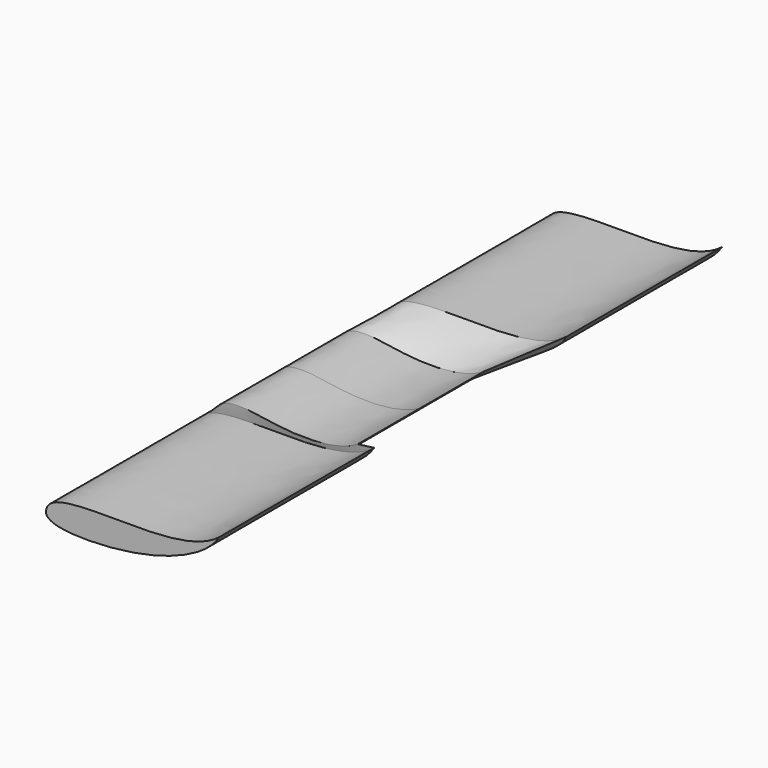
from build123d import *

# Parameters (mm, degrees)
F1_DEPTH = 160
F4_DEPTH = 395


with BuildPart() as f1:
    # F0 (on Front) → F1 (new body)
    with BuildSketch(Plane.XZ):
        with BuildLine():
            add(Edge.make_bspline(
                [(-1480, 56.1515912414), (-1472.4127512286, 77.6278256087), (-1411.3175787099, 81.1775037213), (-1338.0768695313, 62.3703446318), (-1230.9165869724, 64.385028033), (-1190, 88.7282312759)],
                knots=[0, 0, 0, 0, 0.273164287, 0.5870694785, 1, 1, 1, 1], degree=3))
            add(Edge.make_bspline(
                [(-1480, 56.1515912414), (-1477.4430900173, 39.0983586398), (-1392.5669949163, 26.7623668149), (-1270.415211733, 35.5212686698), (-1216.6171732979, 61.2203496459), (-1190, 88.7282312759)],
                knots=[0, 0, 0, 0, 0.2975153595, 0.6762557211, 1, 1, 1, 1], degree=3))
        make_face()
    extrude(amount=F1_DEPTH)



with BuildPart() as f4:
    # F3 (on offset) → F4 (new body)
    with BuildSketch(Plane.XZ.offset(246)):
        with BuildLine():
            add(Edge.make_bspline(
                [(-1441.43746001, 79.2777076528), (-1442.0846798885, 92.221641831), (-1414.6595554646, 121.3787952503), (-1215.6092420843, 106.0274347204), (-1117.7501816879, 126.8834528617), (-1088.0866950745, 150.2992587614)],
                knots=[0, 0, 0, 0, 0.1905928497, 0.6325941629, 1, 1, 1, 1], degree=3))
            add(Edge.make_bspline(
                [(-1441.43746001, 79.2777076528), (-1439.3557205725, 58.8550569179), (-1306.1859364534, 51.5306512304), (-1161.3256056896, 86.0638305965), (-1103.0176656511, 126.8834528617), (-1088.0866950745, 150.2992587614)],
                knots=[0, 0, 0, 0, 0.3272890238, 0.7163338812, 1, 1, 1, 1], degree=3))
        make_face()
    extrude(amount=F4_DEPTH)


with BuildPart() as f1_1:
    add(f1.part)

    add(f4.part)  # F5 merges F4
    # F1_face (on face) → F5 section 0
    with BuildSketch(Plane(origin=(-1361.0419255434, -160, 54.3808921039), x_dir=(1, 0, 0), z_dir=(0, -1, 0))):
        with BuildLine():
            add(Edge.make_bspline(
                [(-118.9580744566, 1.7706991375), (-111.3708256853, 23.2469335048), (-50.2756531666, 26.7966116174), (22.9650560121, 7.9894525279), (130.125338571, 10.0041359291), (171.0419255434, 34.347339172)],
                knots=[0, 0, 0, 0, 0.273164287, 0.5870694785, 1, 1, 1, 1], degree=3))
            add(Edge.make_bspline(
                [(-118.9580744566, 1.7706991375), (-116.4011644739, -15.2825334641), (-31.525069373, -27.618525289), (90.6267138104, -18.8596234341), (144.4247522454, 6.839457542), (171.0419255434, 34.347339172)],
                knots=[0, 0, 0, 0, 0.2975153595, 0.6762557211, 1, 1, 1, 1], degree=3))
        make_face()
    # F4_face (on face) → F5 section 1
    with BuildSketch(Plane(origin=(-1293.8845546636, -246, 91.537450604), x_dir=(1, 0, 0), z_dir=(0, 1, 0))):
        with BuildLine():
            add(Edge.make_bspline(
                [(-147.5529053464, 12.2597429512), (-148.2001252248, -0.6841912271), (-120.7750008009, -29.8413446464), (78.2753125793, -14.4899841164), (176.1343729757, -35.3460022578), (205.7978595891, -58.7618081575)],
                knots=[0, 0, 0, 0, 0.1905928497, 0.6325941629, 1, 1, 1, 1], degree=3))
            add(Edge.make_bspline(
                [(-147.5529053464, 12.2597429512), (-145.4711659089, 32.6823936861), (-12.3013817898, 40.0067993735), (132.558948974, 5.4736200074), (190.8668890125, -35.3460022578), (205.7978595891, -58.7618081575)],
                knots=[0, 0, 0, 0, 0.3272890238, 0.7163338812, 1, 1, 1, 1], degree=3))
        make_face()
    loft()

    # F6: F1 across face


with BuildPart() as f1_2:
    add(f1_1.part)
    add(f1_1.part.mirror(Plane(origin=(-1361.0419255434, 0, 54.3808921039), x_dir=(1, 0, 0), z_dir=(0, 1, 0))))


solid = f1_2.part
